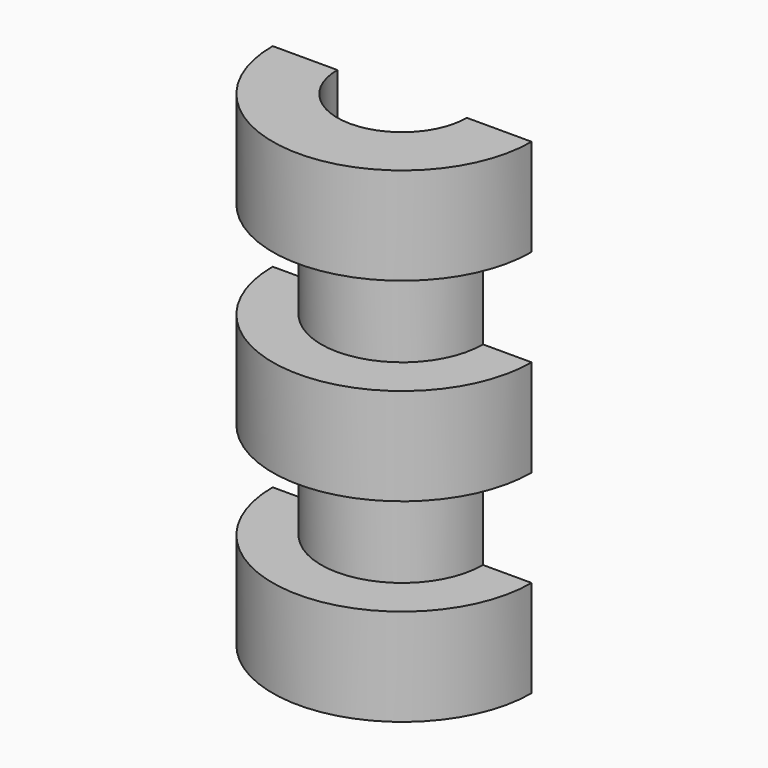
from build123d import *

# Parameters (mm, degrees)
F1_ANGLE = 180
F3_DEPTH = 25.4
F4_R     = 1.27
F5_DEPTH = 1.27
F6_R     = 1.27
F7_DEPTH = 1.27


with BuildPart() as f1:
    # F0 (on Front) → F1 (revolve)
    with BuildSketch(Plane.XZ):
        Polygon((0, -19.05), (0, 19.05), (-10.16, 19.05), (-10.16, 11.43), (-6.35, 11.43), (-6.35, 3.81), (-10.16, 3.81), (-10.16, -3.81), (-6.35, -3.81), (-6.35, -11.43), (-10.16, -11.43), (-10.16, -19.05), align=None)
    revolve(axis=Axis((0, 0, 0), (0, 0, 1)), revolution_arc=F1_ANGLE)

    # F2 (on Top) → F3 (cut, symmetric)
    with BuildSketch(Plane.XY):
        with BuildLine():
            ThreePointArc((-5.08, 0), (0, -5.08), (5.08, 0))
            Line((5.08, 0), (-5.08, 0))
        make_face()
    extrude(amount=F3_DEPTH, both=True, mode=Mode.SUBTRACT)

    # F4 (on Front) → F5 (join)
    with BuildSketch(Plane.XZ):
        with Locations((7.62, 15.24)):
            Circle(F4_R)
        with Locations((7.62, -15.24)):
            Circle(F4_R)
    extrude(amount=-F5_DEPTH)

    # F6 (on Front) → F7 (cut)
    with BuildSketch(Plane.XZ):
        with Locations((-7.62, 15.24)):
            Circle(F6_R)
        with Locations((-7.62, -15.24)):
            Circle(F6_R)
    extrude(amount=F7_DEPTH, mode=Mode.SUBTRACT)


solid = f1.part
